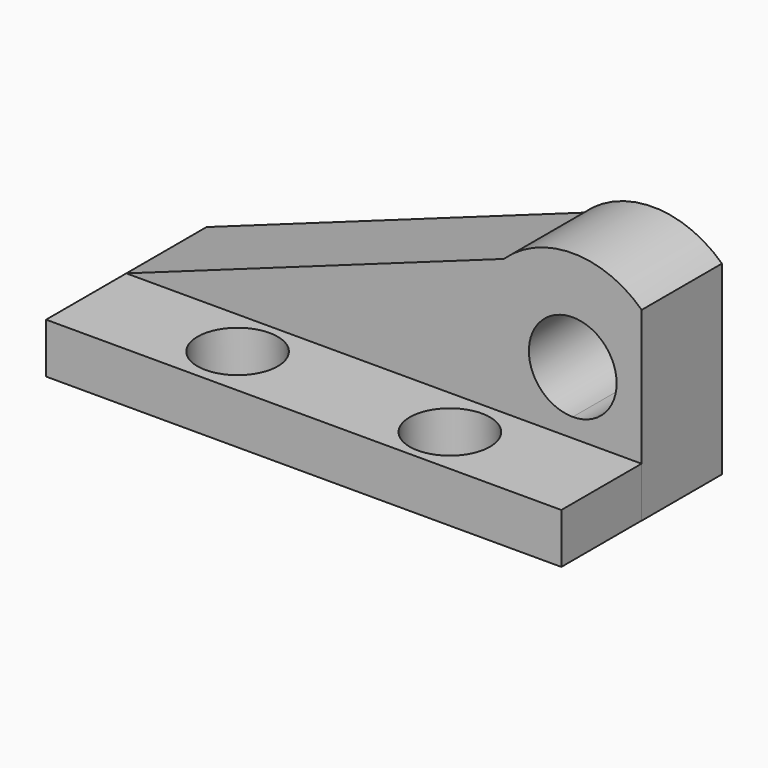
from build123d import *

# Parameters (mm, degrees)
F1_DEPTH = 25.4
F3_W     = 130.528664
F3_H     = 12.7
F4_DEPTH = 25.4
F6_D     = 20.32


with BuildPart() as f1:
    # F0 (on Front) → F1 (new body)
    with BuildSketch(Plane.XZ):
        with BuildLine():
            Line((-63.120894, 12.7), (-63.120894, 0))
            Line((-63.120894, 0), (49.977216, 0))
            Line((49.977216, 0), (67.445484, 0))
            Line((67.445484, 0), (67.445484, 47.014621))
            ThreePointArc((67.445484, 47.014621), (49.977216, 53.975), (32.508948, 47.014621))
            Line((32.508948, 47.014621), (-63.120894, 12.7))
        make_face()
        with BuildLine():
            ThreePointArc((61.089716, 28.575), (57.83494, 20.717276), (49.977216, 17.4625))
            ThreePointArc((49.977216, 17.4625), (42.119492, 36.432724), (61.089716, 28.575))
        make_face(mode=Mode.SUBTRACT)
    extrude(amount=F1_DEPTH)

    # F3 (on face) → F4 (join)
    with BuildSketch(Plane.XZ.offset(25.4)):
        with Locations((2.143438, 6.35)):
            Rectangle(F3_W, F3_H)
    extrude(amount=F4_DEPTH)

    # F6 (through all)
    with Locations(Plane.XY.offset(12.7)):
        with Locations((-25.020894, -37.777487), (29.30777, -38.479097)):
            Hole(F6_D / 2)


solid = f1.part
